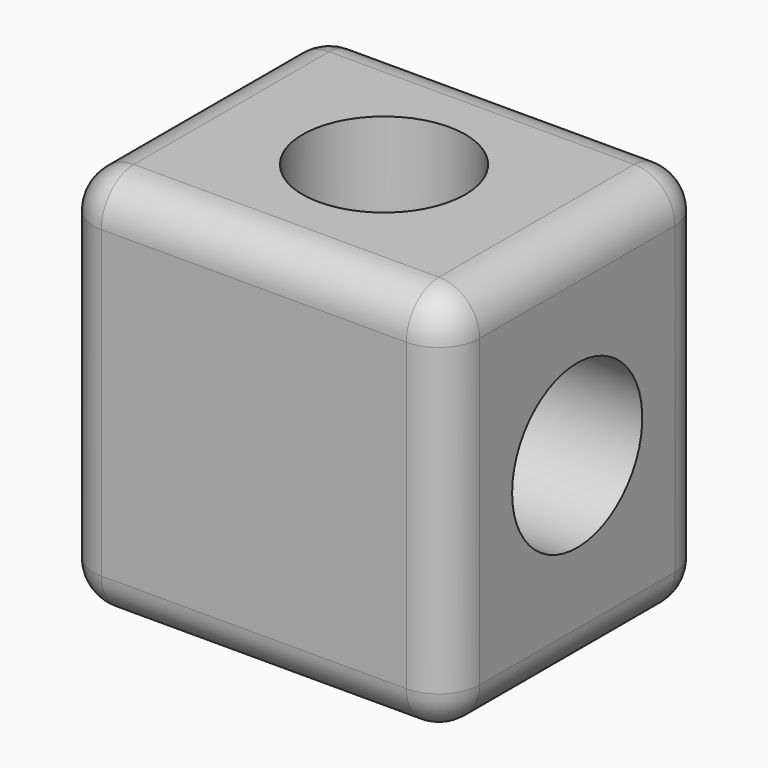
from build123d import *

# Parameters (mm, degrees)
F0_W     = 19
F0_H     = 19
F1_DEPTH = 16
F2_R     = 4
F3_DEPTH = 19
F4_R     = 4
F5_DEPTH = 19
F6_R     = 2


with BuildPart() as f1:
    # F0 (on Front) → F1 (new body)
    with BuildSketch(Plane.XZ):
        Rectangle(F0_W, F0_H)
    extrude(amount=F1_DEPTH)

    # F2 (on face) → F3 (cut)
    with BuildSketch(Plane.XY.offset(9.5)):
        with Locations((0, -8)):
            Circle(F2_R)
    extrude(amount=-F3_DEPTH, mode=Mode.SUBTRACT)

    # F4 (on face) → F5 (cut)
    with BuildSketch(Plane(origin=(-9.5, 0, 0), x_dir=(0, -1, 0), z_dir=(-1, 0, 0))):
        with Locations((8, 0)):
            Circle(F4_R)
    extrude(amount=-F5_DEPTH, mode=Mode.SUBTRACT)

    # F6
    f6_edges = [f1.edges().sort_by_distance(p)[0] for p in [
        (9.5, 0, 0),
        (0, 0, 9.5),
        (0, 0, -9.5),
        (-9.5, 0, 0),
        (-9.5, -16, 0),
        (9.5, -16, 0),
        (0, -16, -9.5),
        (0, -16, 9.5),
        (-9.5, -8, -9.5),
        (9.5, -8, -9.5),
        (9.5, -8, 9.5),
        (-9.5, -8, 9.5),
    ]]
    fillet(f6_edges, radius=F6_R)


solid = f1.part
